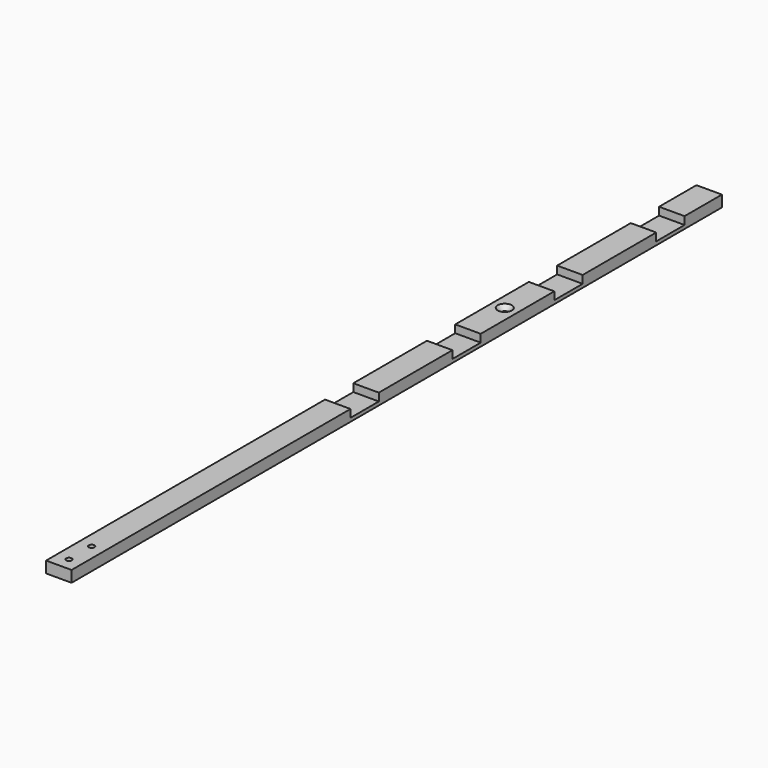
from build123d import *

# Parameters (mm, degrees)
SKETCH044_W             = 574.323184
SKETCH044_H             = 18
PAD022_DEPTH            = 8
SKETCH049_R             = 2
POCKET031_DEPTH         = 8.001
CHAMFER017_SIZE         = 3
SKETCH050_W             = 25
SKETCH050_H             = 18
POCKET032_DEPTH         = 5.5
SKETCH070_R             = 2
POCKET045_DEPTH         = 8.001
CHAMFER029_SIZE         = 3
BODY016_PLACEMENT_ANGLE = 180
CLONE_PLACEMENT_ANGLE   = 90


with BuildPart() as part:
    # Sketch044 → Pad022 (new body)
    with BuildSketch(Plane.XY):
        with Locations((57.838408, -99)):
            Rectangle(SKETCH044_W, SKETCH044_H)
    extrude(amount=PAD022_DEPTH)

    # Sketch049 (on Face6 of Pad022) → Pocket031 (cut, through all)
    with BuildSketch(Plane.XY.offset(8)):
        with Locations((316, -99)):
            Circle(SKETCH049_R)
        with Locations((336, -99)):
            Circle(SKETCH049_R)
    extrude(amount=-POCKET031_DEPTH, mode=Mode.SUBTRACT)

    # Chamfer017
    chamfer017_edges = [part.edges().sort_by_distance(p)[0] for p in [
        (334, -99, 8),
        (314, -99, 8),
    ]]
    chamfer(chamfer017_edges, length=CHAMFER017_SIZE)

    # Sketch050 (on Face9 of Chamfer017) → Pocket032 (cut)
    with BuildSketch(Plane(origin=(0, 0, 0), x_dir=(1, 0, 0), z_dir=(0, 0, -1))):
        with Locations((-183.823184, 99)):
            Rectangle(SKETCH050_W, SKETCH050_H)
        with Locations((-93.823184, 99)):
            Rectangle(SKETCH050_W, SKETCH050_H)
        with Locations((-3.823184, 99)):
            Rectangle(SKETCH050_W, SKETCH050_H)
        with Locations((86.176816, 99)):
            Rectangle(SKETCH050_W, SKETCH050_H)
    extrude(amount=-POCKET032_DEPTH, mode=Mode.SUBTRACT)

    # Sketch070 (on Face1 of Pocket032) → Pocket045 (cut, through all)
    with BuildSketch(Plane.XY.offset(8)):
        with Locations((-48.823184, -99)):
            Circle(SKETCH070_R)
    extrude(amount=-POCKET045_DEPTH, mode=Mode.SUBTRACT)

    # Chamfer029
    chamfer029_edges = [part.edges().sort_by_distance(p)[0] for p in [
        (-50.823184, -99, 0),
    ]]
    chamfer(chamfer029_edges, length=CHAMFER029_SIZE)


with BuildPart() as part_1:
    # Body016 placement: moved
    add(part.part.moved(Location((0, 0, 15.5))).rotate(Axis((0, 0, 15.5), (1, 0, 0)), BODY016_PLACEMENT_ANGLE))


with BuildPart() as part_2:
    # Clone placement: moved
    add(part_1.part.moved(Location((-90, 346, -15.5))).rotate(Axis((-90, 346, -15.5), (0, 0, -1)), CLONE_PLACEMENT_ANGLE))


solid = part_2.part
